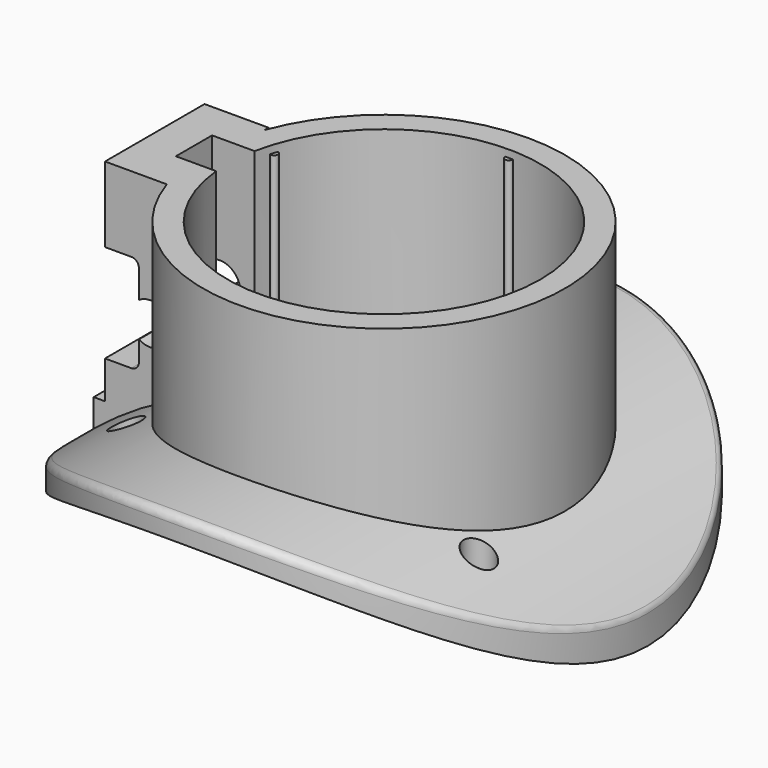
from build123d import *

# Parameters (mm, degrees)
CYLINDER022_R           = 2
CYLINDER022_DEPTH       = 40
CYLINDER021_R           = 0.5
CYLINDER021_DEPTH       = 21
ARRAY003_COUNT          = 5
CYLINDER016_R           = 48
CYLINDER016_DEPTH       = 245
CYLINDER016_ROLL_ANGLE  = 90
CYLINDER020_R           = 1.25
CYLINDER020_DEPTH       = 10
CYLINDER020_PITCH_ANGLE = 90
ARRAY002_Z_COUNT        = 2
ARRAY002_Z_PITCH        = 19
BOX006_W                = 10
BOX006_H                = 6
BOX006_DEPTH            = 12
BOX005_W                = 10
BOX005_H                = 18
BOX005_DEPTH            = 28
BOX004_W                = 5.5
BOX004_H                = 19
BOX004_DEPTH            = 13
CYLINDER019_R           = 2.75
CYLINDER019_DEPTH       = 20
CYLINDER019_ROLL_ANGLE  = 90
BOX003_W                = 6
BOX003_H                = 6
BOX003_DEPTH            = 120
BOX002_W                = 10
BOX002_H                = 16.5
BOX002_DEPTH            = 34
CYLINDER009_R           = 20.75
CYLINDER009_DEPTH       = 150
CYLINDER014_R           = 48
CYLINDER014_DEPTH       = 245
CYLINDER014_ROLL_ANGLE  = 90
CYLINDER013_R           = 24
CYLINDER013_DEPTH       = 56
CYLINDER015_R           = 22.5
CYLINDER015_DEPTH       = 150
CYLINDER010_R           = 2
CYLINDER010_DEPTH       = 40
ARRAY001_COUNT          = 3
CYLINDER012_R           = 48
CYLINDER012_DEPTH       = 245
CYLINDER012_ROLL_ANGLE  = 90
CYLINDER017_R           = 51
CYLINDER017_DEPTH       = 245
CYLINDER017_ROLL_ANGLE  = 90
CYLINDER018_R           = 65
CYLINDER018_DEPTH       = 245
CYLINDER018_ROLL_ANGLE  = 90
CYLINDER011_R           = 35
CYLINDER011_DEPTH       = 30
FILLET_R                = 1
FILLET001_R             = 1


with BuildPart() as obj1:
    # Cylinder022 → Cylinder022 (new body)
    with BuildSketch(Plane(origin=(0, 29, -30), x_dir=(1, 0, 0), z_dir=(0, 0, 1))):
        Circle(CYLINDER022_R)
    extrude(amount=CYLINDER022_DEPTH)


with BuildPart() as array003:
    # Cylinder021 → Cylinder021 (new body)
    with BuildSketch(Plane(origin=(0, 20.7, 2), x_dir=(1, 0, 0), z_dir=(0, 0, 1))):
        Circle(CYLINDER021_R)
    extrude(amount=CYLINDER021_DEPTH)

    # Array003: Array003 ×5 about axis
    array003_axis = Axis((0, 0, 0), (0, 0, 1))


with BuildPart() as array003_1:
    add(array003.part)
    for i in range(1, ARRAY003_COUNT):
        add(array003.part.rotate(array003_axis, i * 360 / ARRAY003_COUNT))


with BuildPart() as obj2:
    # Cylinder016 → Cylinder016 (new body)
    with BuildSketch(Plane.XY):
        Circle(CYLINDER016_R)
    extrude(amount=CYLINDER016_DEPTH)


with BuildPart() as obj2_1:
    # Cylinder016 roll: moved
    add(obj2.part.rotate(Axis((0, 0, 0), (1, 0, 0)), CYLINDER016_ROLL_ANGLE))


with BuildPart() as obj2_2:
    # Cylinder016 placement: moved
    add(obj2_1.part.moved(Location((0, 79, -47))))


with BuildPart() as array002:
    # Cylinder020 → Cylinder020 (new body)
    with BuildSketch(Plane.XY):
        Circle(CYLINDER020_R)
    extrude(amount=CYLINDER020_DEPTH)


with BuildPart() as array002_1:
    # Cylinder020 pitch: moved
    add(array002.part.rotate(Axis((0, 0, 0), (0, 1, 0)), CYLINDER020_PITCH_ANGLE))


with BuildPart() as array002_2:
    # Cylinder020 placement: moved
    add(array002_1.part.moved(Location((-35, 1, -1.75))))

    # Array002 Z: Array002 ×2


with BuildPart() as array002_3:
    add(array002_2.part)
    with Locations(*[(0, 0, i * ARRAY002_Z_PITCH) for i in range(1, ARRAY002_Z_COUNT)]):
        add(array002_2.part)


with BuildPart() as box006:
    # Box006 → Box006 (new body)
    with BuildSketch(Plane.XY):
        with Locations((5, 3)):
            Rectangle(BOX006_W, BOX006_H)
    extrude(amount=BOX006_DEPTH)


with BuildPart() as box005:
    # Box005 → Box005 (new body)
    with BuildSketch(Plane(origin=(-41, -8, -4), x_dir=(1, 0, 0), z_dir=(0, 0, 1))):
        with Locations((5, 9)):
            Rectangle(BOX005_W, BOX005_H)
    extrude(amount=BOX005_DEPTH)


with BuildPart() as box004:
    # Box004 → Box004 (new body)
    with BuildSketch(Plane(origin=(-32, -9, 1), x_dir=(1, 0, 0), z_dir=(0, 0, 1))):
        with Locations((2.75, 9.5)):
            Rectangle(BOX004_W, BOX004_H)
    extrude(amount=BOX004_DEPTH)


with BuildPart() as obj3:
    # Cylinder019 → Cylinder019 (new body)
    with BuildSketch(Plane.XY):
        Circle(CYLINDER019_R)
    extrude(amount=CYLINDER019_DEPTH)


with BuildPart() as obj3_1:
    # Cylinder019 roll: moved
    add(obj3.part.rotate(Axis((0, 0, 0), (1, 0, 0)), CYLINDER019_ROLL_ANGLE))


with BuildPart() as obj3_2:
    # Cylinder019 placement: moved
    add(obj3_1.part.moved(Location((-25, 10, 7))))


with BuildPart() as box003:
    # Box003 → Box003 (new body)
    with BuildSketch(Plane(origin=(-26, -2, -10), x_dir=(1, 0, 0), z_dir=(0, 0, 1))):
        with Locations((3, 3)):
            Rectangle(BOX003_W, BOX003_H)
    extrude(amount=BOX003_DEPTH)


with BuildPart() as obj4:
    # Box002 → Box002 (new body)
    with BuildSketch(Plane(origin=(-32.5, -7.5, -10), x_dir=(1, 0, 0), z_dir=(0, 0, 1))):
        with Locations((5, 8.25)):
            Rectangle(BOX002_W, BOX002_H)
    extrude(amount=BOX002_DEPTH)


with BuildPart() as cylinder009:
    # Cylinder009 → Cylinder009 (new body)
    with BuildSketch(Plane.XY.offset(-32)):
        Circle(CYLINDER009_R)
    extrude(amount=CYLINDER009_DEPTH)


with BuildPart() as cylinder014:
    # Cylinder014 → Cylinder014 (new body)
    with BuildSketch(Plane.XY):
        Circle(CYLINDER014_R)
    extrude(amount=CYLINDER014_DEPTH)


with BuildPart() as cylinder014_1:
    # Cylinder014 roll: moved
    add(cylinder014.part.rotate(Axis((0, 0, 0), (1, 0, 0)), CYLINDER014_ROLL_ANGLE))


with BuildPart() as cylinder014_2:
    # Cylinder014 placement: moved
    add(cylinder014_1.part.moved(Location((0, 79, -47))))


with BuildPart() as obj5:
    # Cylinder013 → Cylinder013 (new body)
    with BuildSketch(Plane.XY.offset(-32)):
        Circle(CYLINDER013_R)
    extrude(amount=CYLINDER013_DEPTH)

    # Cut008: cut Cylinder014
    add(cylinder014_2.part, mode=Mode.SUBTRACT)

    # Cut009: cut Cylinder009
    add(cylinder009.part, mode=Mode.SUBTRACT)

    # Fusion: union obj4
    add(obj4.part)


with BuildPart() as cylinder015:
    # Cylinder015 → Cylinder015 (new body)
    with BuildSketch(Plane.XY.offset(-32)):
        Circle(CYLINDER015_R)
    extrude(amount=CYLINDER015_DEPTH)


with BuildPart() as array001:
    # Cylinder010 → Cylinder010 (new body)
    with BuildSketch(Plane(origin=(0, 27, -30), x_dir=(1, 0, 0), z_dir=(0, 0, 1))):
        Circle(CYLINDER010_R)
    extrude(amount=CYLINDER010_DEPTH)

    # Array001: Array001 ×3 about axis
    array001_axis = Axis((0, 0, 0), (0, 0, 1))


with BuildPart() as array001_1:
    add(array001.part)
    for i in range(1, ARRAY001_COUNT):
        add(array001.part.rotate(array001_axis, i * 360 / ARRAY001_COUNT))


with BuildPart() as cylinder012:
    # Cylinder012 → Cylinder012 (new body)
    with BuildSketch(Plane.XY):
        Circle(CYLINDER012_R)
    extrude(amount=CYLINDER012_DEPTH)


with BuildPart() as cylinder012_1:
    # Cylinder012 roll: moved
    add(cylinder012.part.rotate(Axis((0, 0, 0), (1, 0, 0)), CYLINDER012_ROLL_ANGLE))


with BuildPart() as cylinder012_2:
    # Cylinder012 placement: moved
    add(cylinder012_1.part.moved(Location((0, 79, -47))))


with BuildPart() as cylinder017:
    # Cylinder017 → Cylinder017 (new body)
    with BuildSketch(Plane.XY):
        Circle(CYLINDER017_R)
    extrude(amount=CYLINDER017_DEPTH)


with BuildPart() as cylinder017_1:
    # Cylinder017 roll: moved
    add(cylinder017.part.rotate(Axis((0, 0, 0), (1, 0, 0)), CYLINDER017_ROLL_ANGLE))


with BuildPart() as cylinder017_2:
    # Cylinder017 placement: moved
    add(cylinder017_1.part.moved(Location((0, 79, -47))))


with BuildPart() as cut015:
    # Cylinder018 → Cylinder018 (new body)
    with BuildSketch(Plane.XY):
        Circle(CYLINDER018_R)
    extrude(amount=CYLINDER018_DEPTH)


with BuildPart() as cut015_1:
    # Cylinder018 roll: moved
    add(cut015.part.rotate(Axis((0, 0, 0), (1, 0, 0)), CYLINDER018_ROLL_ANGLE))


with BuildPart() as cut015_2:
    # Cylinder018 placement: moved
    add(cut015_1.part.moved(Location((0, 79, -47))))

    # Cut015: cut Cylinder017
    add(cylinder017_2.part, mode=Mode.SUBTRACT)


with BuildPart() as obj6:
    # Cylinder011 → Cylinder011 (new body)
    with BuildSketch(Plane.XY.offset(-25)):
        Circle(CYLINDER011_R)
    extrude(amount=CYLINDER011_DEPTH)

    # Cut016: cut Cut015
    add(cut015_2.part, mode=Mode.SUBTRACT)

    # Cut017: cut Cylinder012
    add(cylinder012_2.part, mode=Mode.SUBTRACT)

    # Cut018: cut Array001
    add(array001_1.part, mode=Mode.SUBTRACT)

    # Cut019: cut Cylinder015
    add(cylinder015.part, mode=Mode.SUBTRACT)

    # Fusion008: union obj5
    add(obj5.part)

    # Cut020: cut Box003
    add(box003.part, mode=Mode.SUBTRACT)

    # Cut021: cut obj3
    add(obj3_2.part, mode=Mode.SUBTRACT)

    # Cut022: cut Box004
    add(box004.part, mode=Mode.SUBTRACT)

    # Cut023: cut Box005
    add(box005.part, mode=Mode.SUBTRACT)

    # Cut024: cut Box006
    add(box006.part, mode=Mode.SUBTRACT)

    # Cut025: cut Array002
    add(array002_3.part, mode=Mode.SUBTRACT)

    # Fillet
    fillet_edges = [obj6.edges().sort_by_distance(p)[0] for p in [
        (-35.000001, 0, -9.905526),
    ]]
    fillet(fillet_edges, radius=FILLET_R)

    # Fillet001
    fillet001_edges = [obj6.edges().sort_by_distance(p)[0] for p in [
        (-26.5, 0.75, 1),
        (-26.5, 0.75, 14),
    ]]
    fillet(fillet001_edges, radius=FILLET001_R)

    # Cut026: cut obj2
    add(obj2_2.part, mode=Mode.SUBTRACT)

    # Fusion010: union Array003
    add(array003_1.part)

    # Cut027: cut obj1
    add(obj1.part, mode=Mode.SUBTRACT)


solid = obj6.part
